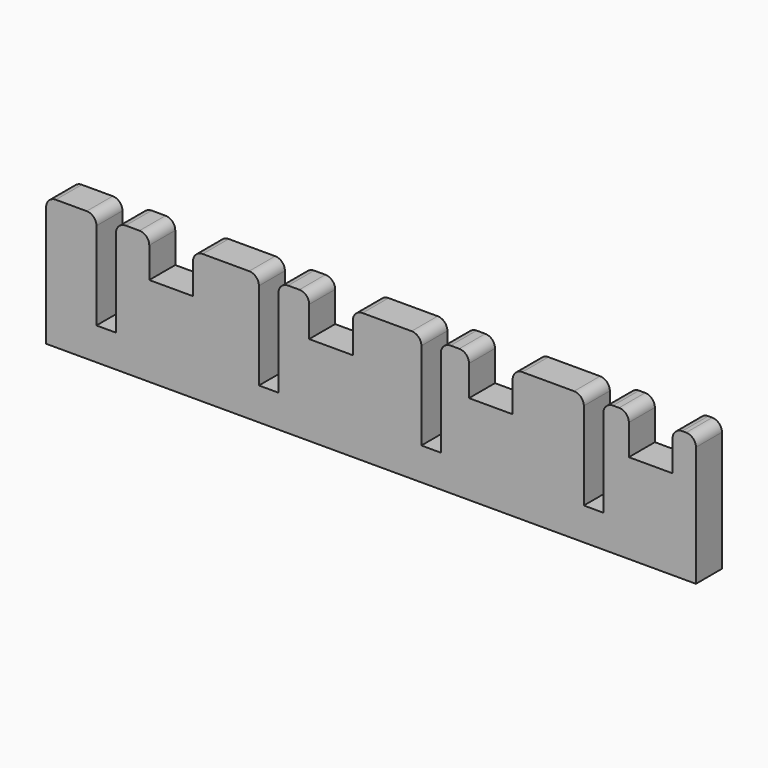
from build123d import *

# Parameters (mm, degrees)
F0_W           = 127
F0_H           = 6.35
F1_DEPTH       = 25.4
F2_W           = 3.81
F2_H           = 19.05
F2_W_2         = 8.5344
F2_H_2         = 7.874
F3_DEPTH       = 6.35
F4_R           = 1.905
F7_D           = 2.7051
F7_DEPTH       = 14.224
F7_TIP         = 0.8126940303
F7_ON_F6_D     = 2.7051
F7_ON_F6_DEPTH = 14.224
F7_ON_F6_TIP   = 0.8126940303
F8_D           = 2.7051
F8_DEPTH       = 8.89
F8_TIP         = 0.8126940303


with BuildPart() as f1:
    # F0 (on Top) → F1 (new body)
    with BuildSketch(Plane.XY):
        Rectangle(F0_W, F0_H)
    extrude(amount=F1_DEPTH)

    # F2 (on face) → F3 (cut, through all)
    with BuildSketch(Plane.XZ.offset(3.175)):
        with Locations((-51.7525, 15.875)):
            Rectangle(F2_W, F2_H)
        with Locations((-20.0025, 15.875)):
            Rectangle(F2_W, F2_H)
        with Locations((11.7475, 15.875)):
            Rectangle(F2_W, F2_H)
        with Locations((43.4975, 15.875)):
            Rectangle(F2_W, F2_H)
        with Locations((-39.0652, 21.463)):
            Rectangle(F2_W_2, F2_H_2)
        with Locations((-7.8232, 21.463)):
            Rectangle(F2_W_2, F2_H_2)
        with Locations((23.4188, 21.463)):
            Rectangle(F2_W_2, F2_H_2)
        with Locations((54.6608, 21.463)):
            Rectangle(F2_W_2, F2_H_2)
    extrude(amount=-F3_DEPTH, mode=Mode.SUBTRACT)

    # F4
    f4_edges = [f1.edges().sort_by_distance(p)[0] for p in [
        (-53.6575, 0, 25.4),
        (-49.8475, 0, 25.4),
        (-21.9075, 0, 25.4),
        (-18.0975, 0, 25.4),
        (9.8425, 0, 25.4),
        (13.6525, 0, 25.4),
        (41.5925, 0, 25.4),
        (45.4025, 0, 25.4),
        (-43.3324, 0, 25.4),
        (-34.798, 0, 25.4),
        (-12.0904, 0, 25.4),
        (-3.556, 0, 25.4),
        (19.1516, 0, 25.4),
        (27.686, 0, 25.4),
        (50.3936, 0, 25.4),
        (58.928, 0, 25.4),
        (63.5, 0, 25.4),
        (-63.5, 0, 25.4),
    ]]
    fillet(f4_edges, radius=F4_R)

    # F7
    with Locations(Plane(origin=(0, 0, 0), x_dir=(1, 0, 0), z_dir=(0, 0, -1))):
        with Locations((-38.1, 0), (38.1, 0)):
            Hole(F7_D / 2, depth=F7_DEPTH)
            with Locations((0, 0, -(F7_DEPTH + F7_TIP / 2))):  # 118° drill point
                Cone(0, F7_D / 2, F7_TIP, mode=Mode.SUBTRACT)

    # F7 on F6
    with Locations(Plane(origin=(-63.5, 0, 0), x_dir=(0, -1, 0), z_dir=(-1, 0, 0))):
        with Locations((0, 3.81)):
            Hole(F7_ON_F6_D / 2, depth=F7_ON_F6_DEPTH)
            with Locations((0, 0, -(F7_ON_F6_DEPTH + F7_ON_F6_TIP / 2))):  # 118° drill point
                Cone(0, F7_ON_F6_D / 2, F7_ON_F6_TIP, mode=Mode.SUBTRACT)

    # F8
    with Locations(Plane(origin=(-63.5, 0, 0), x_dir=(0, -1, 0), z_dir=(-1, 0, 0))):
        with Locations((0, 16.51)):
            Hole(F8_D / 2, depth=F8_DEPTH)
            with Locations((0, 0, -(F8_DEPTH + F8_TIP / 2))):  # 118° drill point
                Cone(0, F8_D / 2, F8_TIP, mode=Mode.SUBTRACT)


solid = f1.part
